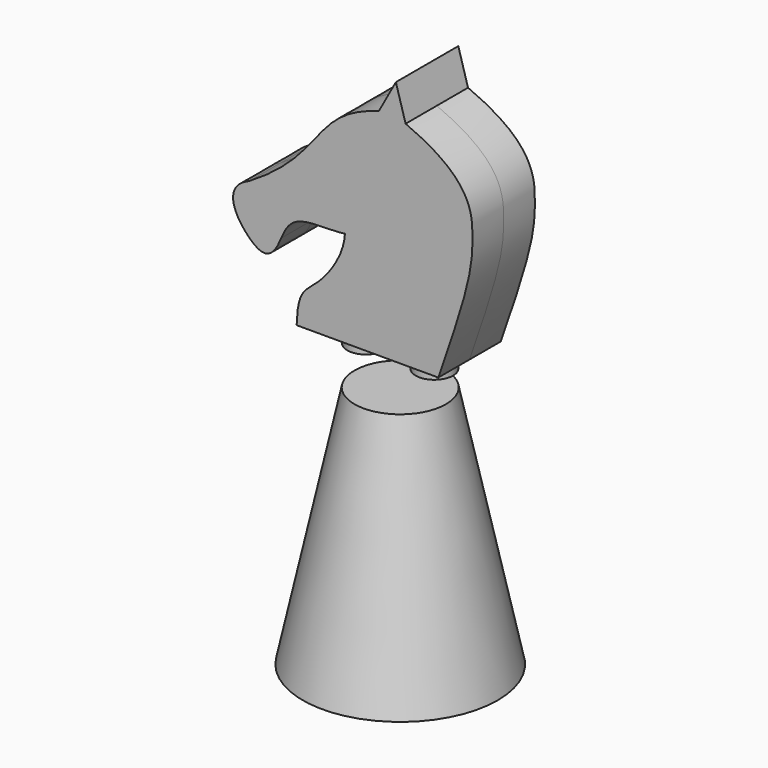
from build123d import *

# Parameters (mm, degrees)
F3_R     = 10
F4_DEPTH = 25
F4_TAPER = 12
F6_DEPTH = 4
F7_R     = 1.925
F8_DEPTH = 2


with BuildPart() as f4:
    # F3 (on Top) → F4 (new body)
    with BuildSketch(Plane.XY):
        Circle(F3_R)
    extrude(amount=F4_DEPTH, taper=F4_TAPER)


with BuildPart() as f6:
    # F5 (on Front) → F6 (new body, symmetric)
    with BuildSketch(Plane.XZ):
        with BuildLine():
            Line((2.7545168996, 55.0759210778), (1.0090367869, 51.890943159))
            add(Edge.make_bspline(
                [(-12.3098591853, 41.2358080065), (-4.2772642086, 46.0641489872), (-5.9833362078, 49.8947376602), (1.0090367869, 51.890943159)],
                knots=[0, 0, 0, 0, 17.0565206016, 17.0565206016, 17.0565206016, 17.0565206016], degree=3))
            add(Edge.make_bspline(
                [(-9.0189639417, 37.1525069193), (-9.9801826199, 34.6635860085), (-12.4437455483, 35.3962825063), (-15.1802037206, 40.0572151531), (-12.3098591853, 41.2358080065)],
                knots=[0, 0, 0, 0, 0.4485145781, 1, 1, 1, 1], degree=3))
            add(Edge.make_bspline(
                [(-9.0189639417, 37.1525069193), (-8.5638371082, 38.2034996324), (-7.5634908743, 39.9265074419), (-3.4559620028, 39.4761695976), (-2.4762957511, 39.7033232817)],
                knots=[0, 0, 0, 0, 0.4423119337, 1, 1, 1, 1], degree=3))
            add(Edge.make_bspline(
                [(-7.4235480266, 29.8215409847), (-7.3369486536, 33.0697739436), (-5.6790646776, 33.4130882805), (-2.5604610159, 37.5395536743), (-2.4762957511, 39.7033232817)],
                knots=[0, 0, 0, 0, 0.4673445989, 1, 1, 1, 1], degree=3))
            Line((-7.4235480266, 29.8215409847), (7.107638139, 29.8215409847))
            add(Edge.make_bspline(
                [(3.7516681477, 51.6433044864), (10.4158277179, 48.8581646653), (10.8636567466, 42.4888634106), (10.3009866199, 38.9651989585), (7.107638139, 29.8215409847)],
                knots=[0, 0, 0, 0, 0.4636828584, 1, 1, 1, 1], degree=3))
            Line((3.7516681477, 51.6433044864), (2.7545168996, 55.0759210778))
        make_face()
    extrude(amount=F6_DEPTH, both=True)

    # F7 (on face) → F8 (join)
    with BuildSketch(Plane(origin=(0, 0, 29.8215409847), x_dir=(1, 0, 0), z_dir=(0, 0, -1))):
        with Locations((-3.5, 0)):
            Circle(F7_R)
        with Locations((3.5, 0)):
            Circle(F7_R)
    extrude(amount=F8_DEPTH)


solid = Compound([f4.part, f6.part])
